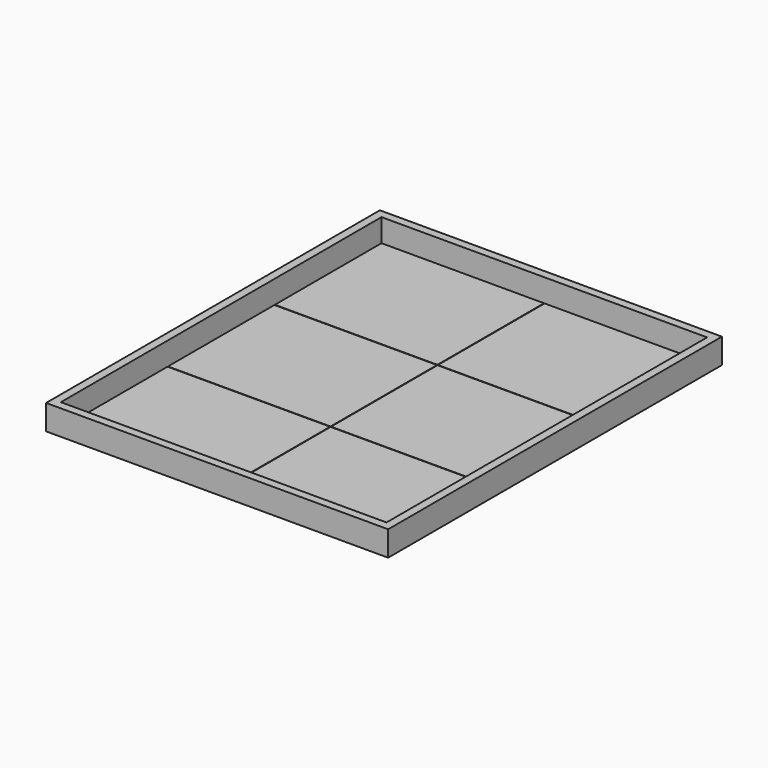
from build123d import *

# Parameters (mm, degrees)
F0_W     = 7924.8
F0_H     = 9753.6
F1_DEPTH = 50.8
F3_DEPTH = 12.7
F4_W     = 8324.8
F4_H     = 10153.6
F4_W_2   = 7924.8
F4_H_2   = 9753.6
F5_DEPTH = 609.6


with BuildPart() as f1:
    # F0 (on Top) → F1 (new body)
    with BuildSketch(Plane.XY):
        Rectangle(F0_W, F0_H)
    extrude(amount=-F1_DEPTH)

    # F2 (on face) → F3 (cut)
    with BuildSketch(Plane.XY):
        Polygon((-3962.4, -1619.25), (-3962.4, -1631.95), (-6.35, -1631.95), (-6.35, -4876.8), (6.35, -4876.8), (6.35, -1631.95), (3962.4, -1631.95), (3962.4, -1619.25), (6.35, -1619.25), (6.35, 1619.25), (3962.4, 1619.25), (3962.4, 1631.95), (6.35, 1631.95), (6.35, 4876.8), (-6.35, 4876.8), (-6.35, 1631.95), (-3962.4, 1631.95), (-3962.4, 1619.25), (-6.35, 1619.25), (-6.35, -1619.25), align=None)
    extrude(amount=-F3_DEPTH, mode=Mode.SUBTRACT)


with BuildPart() as f5:
    # F4 (on face) → F5 (new body)
    with BuildSketch(Plane(origin=(0, 0, -50.8), x_dir=(1, 0, 0), z_dir=(0, 0, -1))):
        Rectangle(F4_W, F4_H)
        Rectangle(F4_W_2, F4_H_2, mode=Mode.SUBTRACT)
    extrude(amount=-F5_DEPTH)


solid = Compound([f1.part, f5.part])
